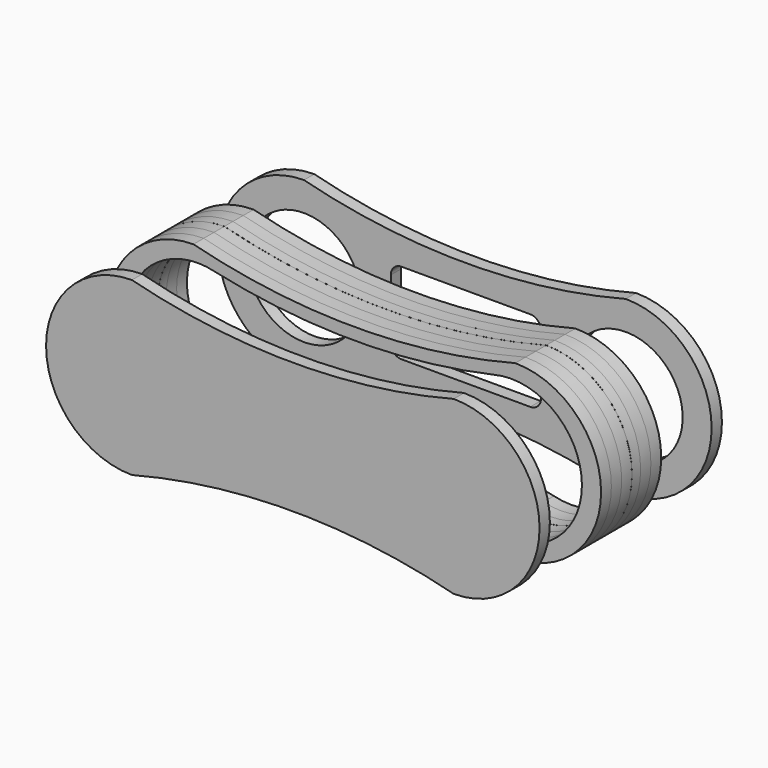
from build123d import *

# Parameters (mm, degrees)
F1_DEPTH  = 6
F3_DEPTH  = 5
F4_DEPTH  = 6
F5_DEPTH  = 6
F6_DEPTH  = 6
F7_DEPTH  = 6
F10_DEPTH = 6
F12_R     = 26.5
F13_DEPTH = 6


with BuildPart() as f1:
    # F0 (on Front) → F1 (new body)
    with BuildSketch(Plane.XZ):
        with BuildLine():
            ThreePointArc((-75, -40), (0, -30.4737509656), (75, -40))
            ThreePointArc((75, -40), (115, 0), (75, 40))
            ThreePointArc((75, 40), (0, 30.4737509656), (-75, 40))
            ThreePointArc((-75, 40), (-115, 0), (-75, -40))
        make_face()
        with BuildLine():
            ThreePointArc((-65, -32), (-106.0622577483, 0), (-65, 32))
            ThreePointArc((-65, 32), (0, 24.8736929121), (65, 32))
            ThreePointArc((65, 32), (106.0622577483, 0), (65, -32))
            ThreePointArc((65, -32), (0, -24.8736929121), (-65, -32))
        make_face(mode=Mode.SUBTRACT)
    extrude(amount=F1_DEPTH)

    # F2 (on Front) → F3 (join)
    with BuildSketch(Plane.XZ):
        with BuildLine():
            ThreePointArc((-74.9745267705, -39.977687401), (0.0254732295, -30.4514383666), (75.0254732295, -39.977687401))
            ThreePointArc((75.0254732295, -39.977687401), (115.0254732295, 0.022312599), (75.0254732295, 40.022312599))
            ThreePointArc((75.0254732295, 40.022312599), (0.0254732295, 30.4960635645), (-74.9745267705, 40.022312599))
            ThreePointArc((-74.9745267705, 40.022312599), (-114.9745267705, 0.022312599), (-74.9745267705, -39.977687401))
        make_face()
        with BuildLine():
            ThreePointArc((-64.9745267705, -31.977687401), (-106.0367845188, 0.022312599), (-64.9745267705, 32.022312599))
            ThreePointArc((-64.9745267705, 32.022312599), (0.0254732295, 24.8960055111), (65.0254732295, 32.022312599))
            ThreePointArc((65.0254732295, 32.022312599), (106.0877309778, 0.022312599), (65.0254732295, -31.977687401))
            ThreePointArc((65.0254732295, -31.977687401), (0.0254732295, -24.8513803132), (-64.9745267705, -31.977687401))
        make_face(mode=Mode.SUBTRACT)
    extrude(amount=-F3_DEPTH)


with BuildPart() as f4:
    # F4 (new): a face of the model
    f4_faces = [f1.part.faces().sort_by_distance(p)[0] for p in [
        (112.5648408676, -6, 0),
    ]]
    extrude(f4_faces, amount=F4_DEPTH)


with BuildPart() as f5:
    # F5 (new): a face of the model
    f5_faces = [f1.part.faces().sort_by_distance(p)[0] for p in [
        (0.0254732295, 5, -28.0162792342),
    ]]
    extrude(f5_faces, amount=F5_DEPTH)


with BuildPart() as f6:
    # F6 (new): a face of the model
    f6_faces = [f5.part.faces().sort_by_distance(p)[0] for p in [
        (0.0254732295, 11, -28.0162792342),
    ]]
    extrude(f6_faces, amount=F6_DEPTH)


with BuildPart() as f7:
    # F7 (new): a face of the model
    f7_faces = [f4.part.faces().sort_by_distance(p)[0] for p in [
        (112.5648408676, -12, 0),
    ]]
    extrude(f7_faces, amount=F7_DEPTH)


with BuildPart() as f10:
    # F9 (on offset) → F10 (new body)
    with BuildSketch(Plane.XZ.offset(48)):
        with BuildLine():
            ThreePointArc((-74.8794772328, -40), (0.1205227672, -30.4737509656), (75.1205227672, -40))
            ThreePointArc((75.1205227672, -40), (115.1205227672, 0), (75.1205227672, 40))
            ThreePointArc((75.1205227672, 40), (0.1205227672, 30.4737509656), (-74.8794772328, 40))
            ThreePointArc((-74.8794772328, 40), (-114.8794772328, 0), (-74.8794772328, -40))
        make_face()
    extrude(amount=F10_DEPTH)


with BuildPart() as f13:
    # F12 (on offset) → F13 (new body)
    with BuildSketch(Plane(origin=(0, 47, 0), x_dir=(-1, 0, 0), z_dir=(0, 1, 0))):
        with BuildLine():
            ThreePointArc((-74.5201730926, -40.2371987939), (0.4798269074, -30.7109497595), (75.4798269074, -40.2371987939))
            ThreePointArc((75.4798269074, -40.2371987939), (115.4798269074, -0.2371987939), (75.4798269074, 39.7628012061))
            ThreePointArc((75.4798269074, 39.7628012061), (0.4798269074, 30.2365521716), (-74.5201730926, 39.7628012061))
            ThreePointArc((-74.5201730926, 39.7628012061), (-114.5201730926, -0.2371987939), (-74.5201730926, -40.2371987939))
        make_face()
        with Locations((-74.5201730926, -0.2371987939)):
            Circle(F12_R, mode=Mode.SUBTRACT)
        with BuildLine():
            Line((-29.9945702561, 19), (30.0054297439, 19))
            ThreePointArc((30.0054297439, 19), (33.5409636498, 17.5355339059), (35.0054297439, 14))
            Line((35.0054297439, 14), (35.0054297439, -14))
            ThreePointArc((35.0054297439, -14), (33.5409636498, -17.5355339059), (30.0054297439, -19))
            Line((30.0054297439, -19), (-29.9945702561, -19))
            ThreePointArc((-29.9945702561, -19), (-33.5301041621, -17.5355339059), (-34.9945702561, -14))
            Line((-34.9945702561, -14), (-34.9945702561, 14))
            ThreePointArc((-34.9945702561, 14), (-33.5301041621, 17.5355339059), (-29.9945702561, 19))
        make_face(mode=Mode.SUBTRACT)
        with Locations((75.4798269074, -0.2371987939)):
            Circle(F12_R, mode=Mode.SUBTRACT)
    extrude(amount=F13_DEPTH)


solid = Compound([f1.part, f4.part, f5.part, f6.part, f7.part, f10.part, f13.part])
